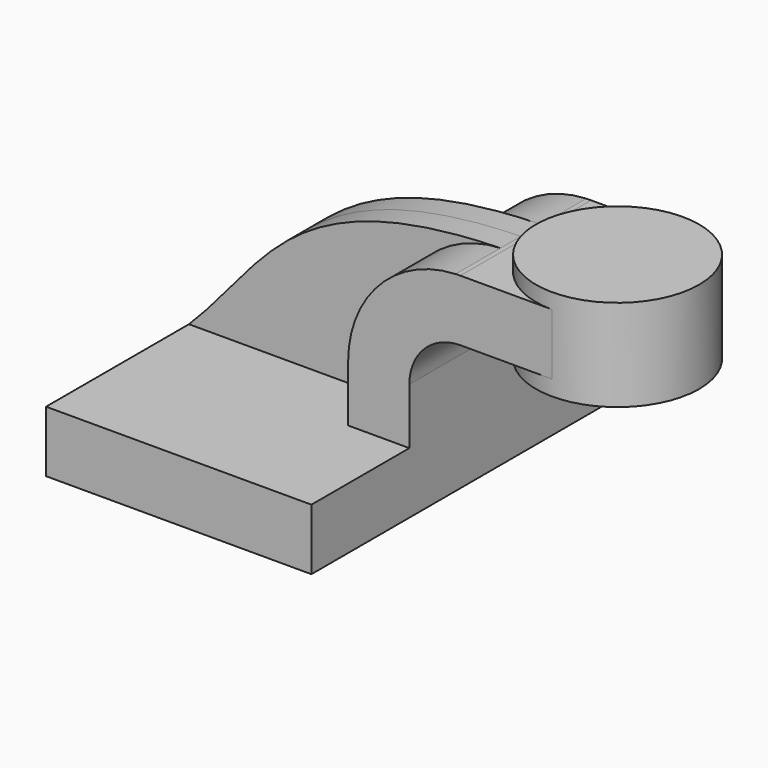
from build123d import *

# Parameters (mm, degrees)
F1_DEPTH = 63.5
F2_DEPTH = 25.4
F3_DEPTH = 7.9375


with BuildPart() as f1:
    # F0 (on Front) → F1 (new body, symmetric)
    with BuildSketch(Plane.XZ):
        Polygon((41.275, -9.525), (41.275, 9.525), (22.225, 9.525), (-41.275, 9.525), (-41.275, -9.525), align=None)
    extrude(amount=F1_DEPTH, both=True)

    # F0 (on Front) → F2 (join, symmetric)
    with BuildSketch(Plane.XZ):
        with BuildLine():
            Line((22.225, 9.525), (41.275, 9.525))
            Line((41.275, 9.525), (41.275, 27.0002))
            ThreePointArc((41.275, 27.0002), (45.92468, 38.22552), (57.15, 42.8752))
            Line((57.15, 42.8752), (60.325, 42.8752))
            Line((60.325, 42.8752), (60.325, 61.9252))
            Line((60.325, 61.9252), (57.15, 61.9252))
            add(Edge.make_bspline(
                [(55.649062, 61.892933), (56.146045, 61.905154), (56.646347, 61.915914), (57.15, 61.9252)],
                knots=[110.675556, 110.675556, 110.675556, 110.675556, 111.504536, 111.504536, 111.504536, 111.504536], degree=3))
            ThreePointArc((55.649062, 61.892933), (31.929216, 51.159415), (22.225, 27.0002))
            Line((22.225, 27.0002), (22.225, 9.525))
        make_face()
        Polygon((60.325, 61.9252), (60.325, 42.8752), (85.725, 42.8752), (85.725, 52.3875), (85.725, 61.9252), align=None)
        Polygon((60.325, 61.9252), (60.325, 42.8752), (85.725, 42.8752), (85.725, 52.3875), (85.725, 61.9252), align=None)
    extrude(amount=F2_DEPTH, both=True)

    # F0 (on Front) → F3 (join, symmetric)
    with BuildSketch(Plane.XZ):
        with BuildLine():
            Line((-41.275, 9.525), (22.225, 9.525))
            Line((22.225, 9.525), (22.225, 27.0002))
            ThreePointArc((22.225, 27.0002), (31.929216, 51.159415), (55.649062, 61.892933))
            add(Edge.make_bspline(
                [(-41.275, 9.525), (-17.894272, 32.578413), (-10.702219, 60.261258), (55.649062, 61.892933)],
                knots=[0, 0, 0, 0, 110.675556, 110.675556, 110.675556, 110.675556], degree=3))
        make_face()
    extrude(amount=F3_DEPTH, both=True)

    # F0 (on Front) → F4 (revolve)
    with BuildSketch(Plane.XZ):
        Polygon((85.725, 52.3875), (85.725, 42.8752), (85.725, 38.1), (111.125, 38.1), (111.125, 66.675), (85.725, 66.675), (85.725, 61.9252), align=None)
    revolve(axis=Axis((85.725, 0, 52.3875), (0, 0, -1)))


solid = f1.part
